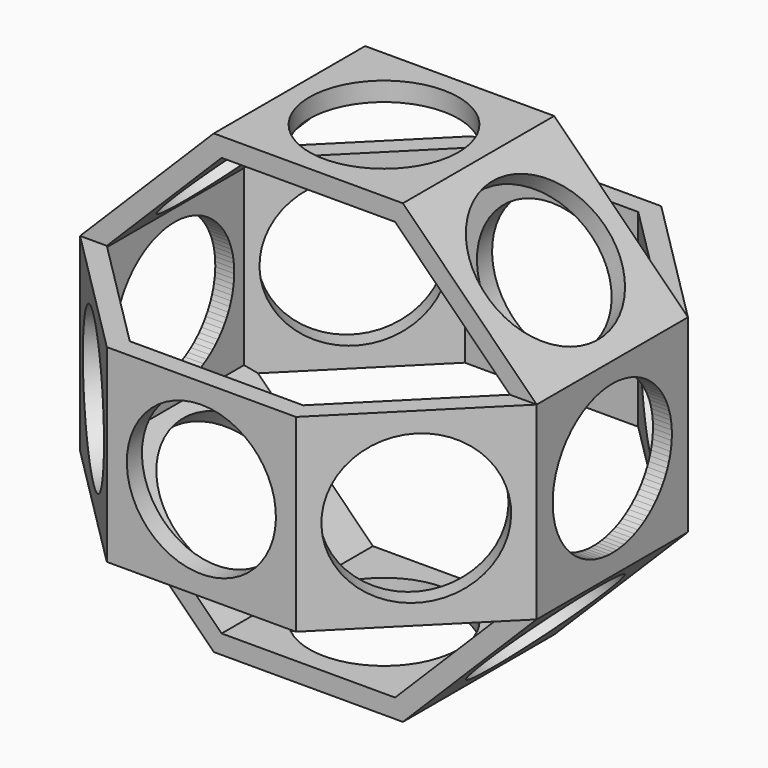
from build123d import *

# Parameters (mm, degrees)
F1_DEPTH      = 25
F1_DEPTH_BACK = 25
F2_R          = 19.71225
F3_DEPTH      = 25
F4_COUNT      = 8
F5_COUNT      = 2
F5_ANGLE      = 90


with BuildPart() as f1:
    # F0 (on Top) → F1 (new body, two sides)
    with BuildSketch(Plane.XY) as f1_sk:
        Polygon((60.355339, -25), (60.355339, 0), (60.355339, 25), (55.355339, 25), (55.355339, 20), (55.355339, -20), (55.355339, -25), align=None)
    extrude(amount=F1_DEPTH)
    extrude(f1_sk.sketch, amount=-F1_DEPTH_BACK)

    # F2 (on face) → F3 (cut)
    with BuildSketch(Plane.YZ.offset(60.355339)):
        Circle(F2_R)
    extrude(amount=-F3_DEPTH, mode=Mode.SUBTRACT)

    # F4: F1 ×8 about axis
    f4_axis = Axis((0, -10, 0), (0, -1, 0))


with BuildPart() as f1_1:
    add(f1.part)
    for i in range(1, F4_COUNT):
        add(f1.part.rotate(f4_axis, i * 360 / F4_COUNT))


with BuildPart() as f5_1:
    # F5: instance of F1
    add(f1_1.part.rotate(Axis((10, 0, 0), (1, 0, 0)), 1 * F5_ANGLE / (F5_COUNT - 1)))


solid = Compound([f1_1.part, f5_1.part])
